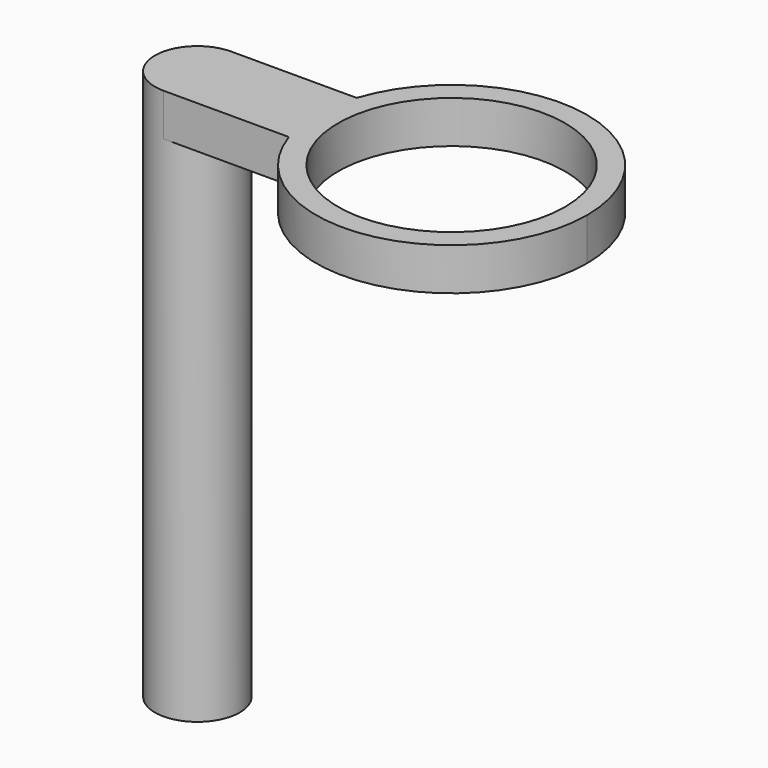
from build123d import *

# Parameters (mm, degrees)
F0_R     = 25
F1_DEPTH = 300
F2_R     = 66.930237
F3_DEPTH = 25


with BuildPart() as f1:
    # F0 (on Top) → F1 (new body)
    with BuildSketch(Plane.XY):
        Circle(F0_R)
    extrude(amount=F1_DEPTH)

    # F2 (on face) → F3 (join)
    with BuildSketch(Plane.XY.offset(300)):
        with BuildLine():
            ThreePointArc((74.006579, -25), (162.659509, -78.992005), (230, 0))
            ThreePointArc((230, 0), (162.659509, 78.992005), (74.006579, 25))
            ThreePointArc((74.006579, 25), (70, 0), (74.006579, -25))
        make_face()
        with Locations((150, 0)):
            Circle(F2_R, mode=Mode.SUBTRACT)
        with BuildLine():
            ThreePointArc((74.006579, -25), (70, 0), (74.006579, 25))
            Line((74.006579, 25), (0, 25))
            ThreePointArc((0, 25), (-25, 0), (0, -25))
            Line((0, -25), (74.006579, -25))
        make_face()
    extrude(amount=F3_DEPTH)


solid = f1.part
